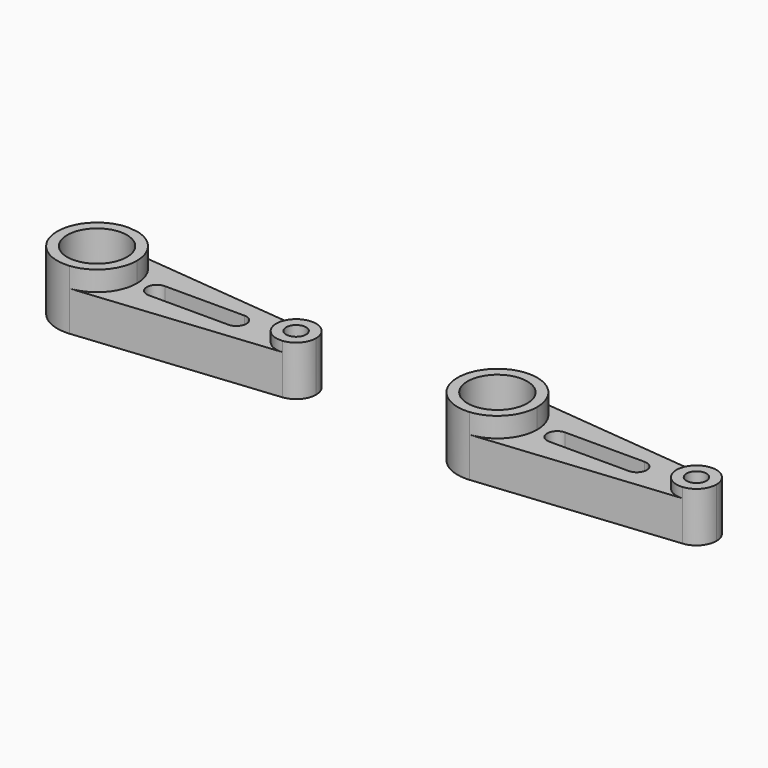
from build123d import *

# Parameters (mm, degrees)
F0_R     = 19.05
F1_DEPTH = 38.1
F2_DEPTH = 25.4
F0_R_2   = 6.35
F3_DEPTH = 31.75
F4_DEPTH = 38.1
F5_DEPTH = 25.4
F6_DEPTH = 31.75


with BuildPart() as f1:
    # F0 (on Top) → F1 (new body)
    with BuildSketch(Plane.XY):
        with BuildLine():
            ThreePointArc((-76.662651, -27.137716), (-60.365507, -18.903873), (-53.802651, -1.865035))
            ThreePointArc((-53.802651, -1.865035), (-60.365507, 15.173803), (-76.662651, 23.407646))
            ThreePointArc((-76.662651, 23.407646), (-104.602651, -1.865035), (-76.662651, -27.137716))
        make_face()
        with Locations((-79.202651, -1.865035)):
            Circle(F0_R, mode=Mode.SUBTRACT)
    extrude(amount=F1_DEPTH)

    # F0 (on Top) → F2 (join)
    with BuildSketch(Plane.XY):
        with BuildLine():
            ThreePointArc((-76.662651, 23.407646), (-60.365507, 15.173803), (-53.802651, -1.865035))
            ThreePointArc((-53.802651, -1.865035), (-60.365507, -18.903873), (-76.662651, -27.137716))
            Line((-76.662651, -27.137716), (49.067349, -14.501375))
            ThreePointArc((49.067349, -14.501375), (35.097349, -1.865035), (49.067349, 10.771306))
            Line((49.067349, 10.771306), (-76.662651, 23.407646))
        make_face()
        with BuildLine():
            ThreePointArc((-41.102651, -8.215035), (-47.452651, -1.865035), (-41.102651, 4.484965))
            Line((-41.102651, 4.484965), (9.697349, 4.484965))
            ThreePointArc((9.697349, 4.484965), (16.047349, -1.865035), (9.697349, -8.215035))
            Line((9.697349, -8.215035), (-41.102651, -8.215035))
        make_face(mode=Mode.SUBTRACT)
    extrude(amount=F2_DEPTH)

    # F0 (on Top) → F3 (join)
    with BuildSketch(Plane.XY):
        with BuildLine():
            ThreePointArc((60.497349, -1.865035), (57.215921, 6.654384), (49.067349, 10.771306))
            ThreePointArc((49.067349, 10.771306), (35.097349, -1.865035), (49.067349, -14.501375))
            ThreePointArc((49.067349, -14.501375), (57.215921, -10.384454), (60.497349, -1.865035))
        make_face()
        with Locations((47.797349, -1.865035)):
            Circle(F0_R_2, mode=Mode.SUBTRACT)
    extrude(amount=F3_DEPTH)


with BuildPart() as f4:
    # F0 (on Top) → F4 (new body)
    with BuildSketch(Plane.XY):
        with BuildLine():
            ThreePointArc((-328.516849, 21.684513), (-331.031884, 21.809336), (-333.522201, 22.182576))
            ThreePointArc((-333.522201, 22.182576), (-358.890351, -4.489018), (-330.982201, -28.490105))
            ThreePointArc((-330.982201, -28.490105), (-314.685056, -20.256262), (-308.122201, -3.217424))
            ThreePointArc((-308.122201, -3.217424), (-313.871553, 12.876427), (-328.516849, 21.684513))
        make_face()
        with Locations((-333.522201, -3.217424)):
            Circle(F0_R, mode=Mode.SUBTRACT)
    extrude(amount=F4_DEPTH)

    # F0 (on Top) → F5 (join)
    with BuildSketch(Plane.XY):
        with BuildLine():
            ThreePointArc((-308.122201, -3.217424), (-314.685056, -20.256262), (-330.982201, -28.490105))
            Line((-330.982201, -28.490105), (-205.252201, -15.853764))
            ThreePointArc((-205.252201, -15.853764), (-219.222199, -3.223696), (-205.264683, 9.420165))
            Line((-205.264683, 9.420165), (-328.516849, 21.684513))
            ThreePointArc((-328.516849, 21.684513), (-313.871553, 12.876427), (-308.122201, -3.217424))
        make_face()
        with BuildLine():
            ThreePointArc((-295.422201, -9.567424), (-301.772201, -3.217424), (-295.422201, 3.132576))
            Line((-295.422201, 3.132576), (-244.622201, 3.132576))
            ThreePointArc((-244.622201, 3.132576), (-238.272201, -3.217424), (-244.622201, -9.567424))
            Line((-244.622201, -9.567424), (-295.422201, -9.567424))
        make_face(mode=Mode.SUBTRACT)
    extrude(amount=F5_DEPTH)

    # F0 (on Top) → F6 (join)
    with BuildSketch(Plane.XY):
        with BuildLine():
            ThreePointArc((-205.264683, 9.420165), (-219.222199, -3.223696), (-205.252201, -15.853764))
            ThreePointArc((-205.252201, -15.853764), (-197.103629, -11.736843), (-193.822201, -3.217424))
            ThreePointArc((-193.822201, -3.217424), (-197.107837, 5.306646), (-205.264683, 9.420165))
        make_face()
        with Locations((-206.522201, -3.217424)):
            Circle(F0_R_2, mode=Mode.SUBTRACT)
    extrude(amount=F6_DEPTH)


solid = Compound([f1.part, f4.part])
